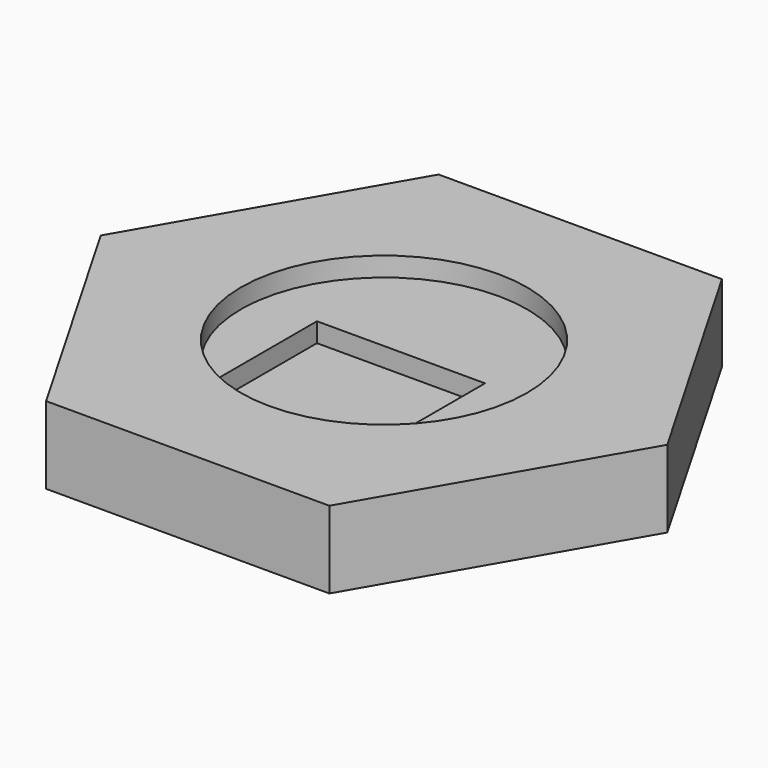
from build123d import *

# Parameters (mm, degrees)
PAD_DEPTH    = 9
SKETCH001_W  = 26.1
SKETCH001_H  = 34.4
POCKET_DEPTH = 3
SKETCH002_R  = 22.22
PAD001_DEPTH = 3


with BuildPart() as part:
    # Sketch → Pad (new body)
    with BuildSketch(Plane.XY):
        Polygon((44, 0), (22, 38.105118), (-22, 38.105118), (-44, 0), (-22, -38.105118), (22, -38.105118), align=None)
    extrude(amount=PAD_DEPTH)

    # Sketch001 (on Face8 of Pad) → Pocket (cut)
    with BuildSketch(Plane.XY.offset(9)):
        with Locations((0, -13.905118)):
            Rectangle(SKETCH001_W, SKETCH001_H)
    extrude(amount=-POCKET_DEPTH, mode=Mode.SUBTRACT)

    # Sketch002 (on Face5 of Pocket) → Pad001 (join)
    with BuildSketch(Plane.XY.offset(9)):
        Polygon((22, 38.105118), (-22, 38.105118), (-44, 0), (-22, -38.105118), (22, -38.105118), (44, 0), align=None)
        Circle(SKETCH002_R, mode=Mode.SUBTRACT)
    extrude(amount=PAD001_DEPTH)


solid = part.part
